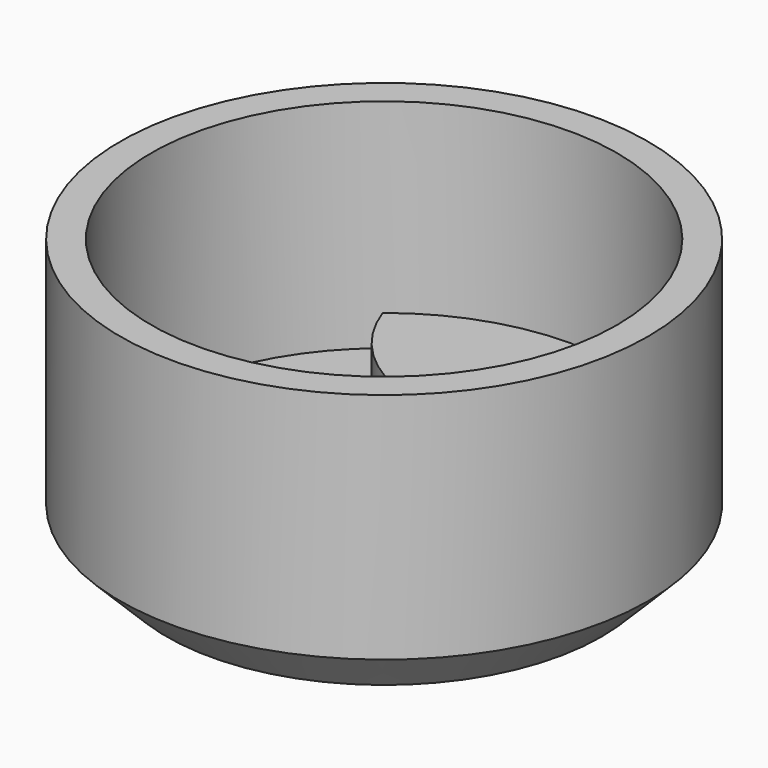
from build123d import *

# Parameters (mm, degrees)
PAD_DEPTH          = 3
POLARPATTERN_COUNT = 3
CHAMFER_SIZE       = 1.5


with BuildPart() as part:
    # Sketch → Revolution (revolve)
    with BuildSketch(Plane.XZ):
        Polygon((5, 0), (8.5, 0), (8.5, 9), (7.5, 9), (7.5, 2), (5, 2), align=None)
    revolve(axis=Axis((0, 0, 0), (0, 0, 1)))

    # Sketch001 → Pad (new body)
    with BuildSketch(Plane.XY):
        with BuildLine():
            ThreePointArc((-4.7140452079, 5.8333333333), (0, 2.5), (4.7140452079, 5.8333333333))
            ThreePointArc((4.7140452079, 5.8333333333), (0, 7.5), (-4.7140452079, 5.8333333333))
        make_face()
    pad = extrude(amount=PAD_DEPTH)

    # PolarPattern: Pad ×3 about axis
    polarpattern_axis = Axis((0, 0, 0), (0, 0, 1))
    for i in range(1, POLARPATTERN_COUNT):
        add(pad.rotate(polarpattern_axis, i * 360 / POLARPATTERN_COUNT))

    # Chamfer
    chamfer_edges = [part.edges().sort_by_distance(p)[0] for p in [
        (-8.5, 0, 0),
    ]]
    chamfer(chamfer_edges, length=CHAMFER_SIZE)


solid = part.part
